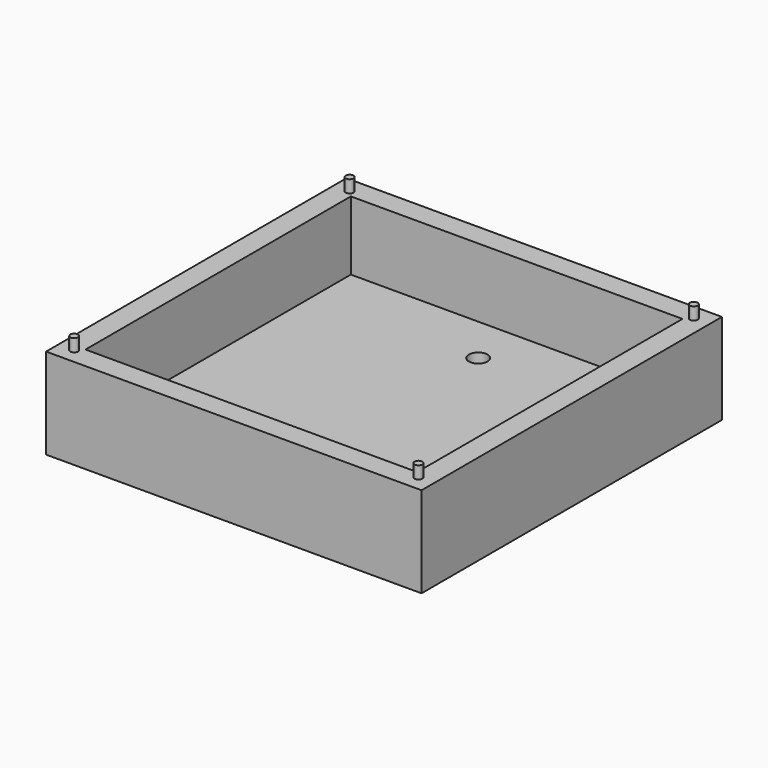
from build123d import *

# Parameters (mm, degrees)
F0_W     = 120
F0_H     = 120
F1_DEPTH = 29
F2_T     = -7
F3_R     = 1.25
F4_DEPTH = 4
F5_R     = 3
F6_DEPTH = 7


with BuildPart() as f1:
    # F0 (on Top) → F1 (new body)
    with BuildSketch(Plane.XY):
        Rectangle(F0_W, F0_H)
    extrude(amount=F1_DEPTH)

    # F2
    f2_openings = [f1.faces().sort_by_distance(p)[0] for p in [
        (0, 0, 29),
    ]]
    offset(amount=F2_T, openings=f2_openings)

    # F3 (on face) → F4 (join)
    with BuildSketch(Plane.XY.offset(29)):
        with BuildLine():
            ThreePointArc((-55, 56.25), (-55.883883, 54.116117), (-53.75, 55))
            ThreePointArc((-53.75, 55), (-54.116117, 55.883883), (-55, 56.25))
        make_face()
        with Locations((55, 55)):
            Circle(F3_R)
        with Locations((55, -55)):
            Circle(F3_R)
        with Locations((-55, -55)):
            Circle(F3_R)
    extrude(amount=F4_DEPTH)

    # F5 (on face) → F6 (cut)
    with BuildSketch(Plane.XY.offset(7)):
        with Locations((0, 37.63944)):
            Circle(F5_R)
    extrude(amount=-F6_DEPTH, mode=Mode.SUBTRACT)


solid = f1.part
